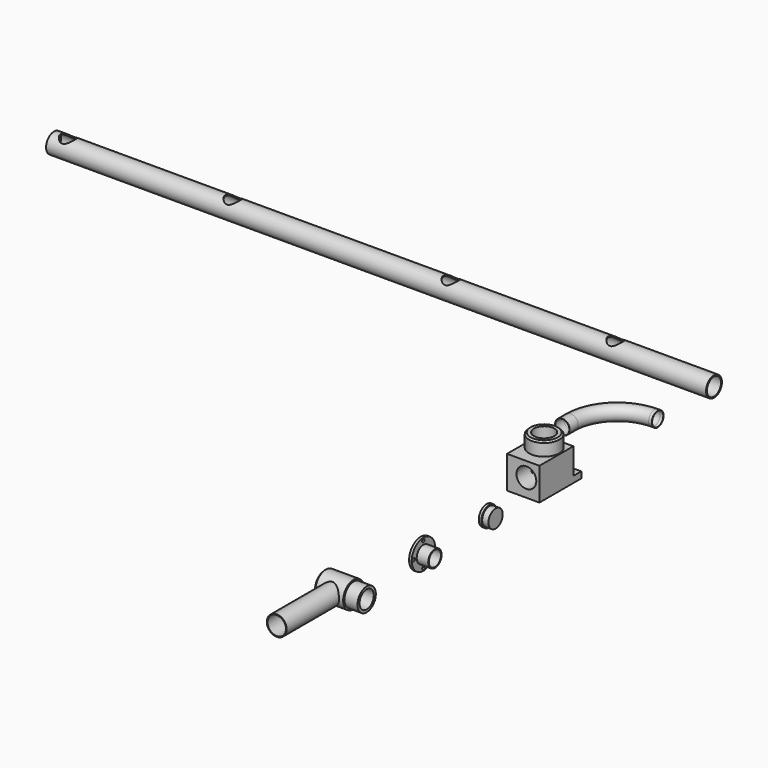
from build123d import *

# Parameters (mm, degrees)
F1_R           = 3.5687
F3_R           = 3.3913874419
F5_R           = 4.826
F6_DEPTH       = 320.548
F7_R           = 4.2803248495
F8_DEPTH       = 320.549
F11_R          = 3.556
F12_DEPTH      = 5.08
F13_W          = 15.748
F13_H          = 20.574
F14_DEPTH      = 15.748
F13_H_2        = 4.826
F15_DEPTH      = 3.048
F16_R          = 7.366
F17_DEPTH      = 6.604
F18_SIZE       = 0.762
F19_R          = 1.0922
F20_DEPTH      = 25.4
F21_R          = 4.9657
F22_DEPTH      = 16.51
F23_R          = 4.826
F24_DEPTH      = 12.7
F25_R          = 4.826
F26_DEPTH      = 1.27
F27_R          = 4.318
F28_DEPTH      = 3.048
F29_R          = 7.112
F29_R_2        = 4.064
F29_R_3        = 3.683
F30_DEPTH      = 1.27
F31_DEPTH      = 5.588
F32_R          = 0.762
F33_DEPTH      = 25.4
F34_R          = 6.35
F34_R_2        = 5.55625
F34_R_3        = 4.318
F35_DEPTH      = 14.224
F36_DEPTH      = 6.35
F40_R          = 4.826
F41_DEPTH      = 6.35
F41_DEPTH_BACK = 31.75
F42_R          = 4.4861073649
F43_DEPTH      = 38.1
F37_R          = 4.318
F44_DEPTH      = 19.812
F45_SIZE       = 0.762


with BuildPart() as f2:
    # F2: sweep along a path in F0
    with BuildLine(Plane.XY) as f2_path:
        Line((0, 0), (-1.524, 0))
        ThreePointArc((-1.524, 0), (-17.5178361516, -6.6248638484), (-24.1427, -22.6187))
        Line((-24.1427, -22.6187), (-24.1427, -27.6987))
    # F1 (on Right) → F2 (sweep)
    with BuildSketch(Plane.YZ):
        Circle(F1_R)
    sweep(path=f2_path.line)

    # F4: sweep along a path in F0
    with BuildLine(Plane.XY) as f4_path:
        Line((0, 0), (-1.524, 0))
        ThreePointArc((-1.524, 0), (-17.5178361516, -6.6248638484), (-24.1427, -22.6187))
        Line((-24.1427, -22.6187), (-24.1427, -27.6987))
    # F3 (on face) → F4 (sweep, cut)
    with BuildSketch(Plane.YZ):
        Circle(F3_R)
    sweep(path=f4_path.line, mode=Mode.SUBTRACT)


with BuildPart() as f6:
    # F5 (on Right) → F6 (new body)
    with BuildSketch(Plane.YZ):
        with Locations((34.1644063592, 0)):
            Circle(F5_R)
    extrude(amount=-F6_DEPTH)

    # F7 (on face) → F8 (cut, through all)
    with BuildSketch(Plane.YZ):
        with Locations((34.1644063592, 0)):
            Circle(F7_R)
    extrude(amount=-F8_DEPTH, mode=Mode.SUBTRACT)

    # F11 (on plane+point) → F12 (cut)
    with BuildSketch(Plane.XY.offset(4.826)):
        with Locations((-313.69, 34.1559387743)):
            Circle(F11_R)
        with Locations((-233.68, 34.1559387743)):
            Circle(F11_R)
        with Locations((-127.762, 34.1559387743)):
            Circle(F11_R)
        with Locations((-47.752, 34.1559387743)):
            Circle(F11_R)
    extrude(amount=-F12_DEPTH, mode=Mode.SUBTRACT)


with BuildPart() as f14:
    # F13 (on Top) → F14 (new body)
    with BuildSketch(Plane.XY):
        with Locations((0, -71.3552562718)):
            Rectangle(F13_W, F13_H)
    extrude(amount=F14_DEPTH)

    # F13 (on Top) → F15 (join)
    with BuildSketch(Plane.XY):
        with Locations((0, -58.6552562718)):
            Rectangle(F13_W, F13_H_2)
    extrude(amount=F15_DEPTH)

    # F16 (on face) → F17 (join)
    with BuildSketch(Plane.XY.offset(15.748)):
        with Locations((0, -68.9422562718)):
            Circle(F16_R)
    extrude(amount=F17_DEPTH)

    # F18
    f18_edges = [f14.edges().sort_by_distance(p)[0] for p in [
        (-7.366, -68.942256, 22.352),
    ]]
    chamfer(f18_edges, length=F18_SIZE)

    # F19 (on face) → F20 (cut)
    with BuildSketch(Plane.XY.offset(3.048)):
        with Locations((-4.826, -58.6552562718)):
            Circle(F19_R)
        with Locations((4.826, -58.6552562718)):
            Circle(F19_R)
    extrude(amount=-F20_DEPTH, mode=Mode.SUBTRACT)

    # F21 (on face) → F22 (cut)
    with BuildSketch(Plane.XY.offset(22.352)):
        with Locations((0, -68.9422562718)):
            Circle(F21_R)
    extrude(amount=-F22_DEPTH, mode=Mode.SUBTRACT)

    # F23 (on face) → F24 (cut)
    with BuildSketch(Plane.XZ.offset(81.6422562718)):
        with Locations((1.524, 8.636)):
            Circle(F23_R)
    extrude(amount=-F24_DEPTH, mode=Mode.SUBTRACT)


with BuildPart() as f26:
    # F25 (on Right) → F26 (new body)
    with BuildSketch(Plane.YZ):
        with Locations((-102.2388637066, 0)):
            Circle(F25_R)
    extrude(amount=-F26_DEPTH)

    # F27 (on face) → F28 (join)
    with BuildSketch(Plane.YZ):
        with Locations((-102.2388637066, 0)):
            Circle(F27_R)
    extrude(amount=F28_DEPTH)


with BuildPart() as f30:
    # F29 (on Right) → F30 (new body)
    with BuildSketch(Plane.YZ):
        with Locations((-142.2408074141, 0)):
            Circle(F29_R)
        with Locations((-142.2408074141, 0)):
            Circle(F29_R_2, mode=Mode.SUBTRACT)
        with Locations((-142.2408074141, 0)):
            Circle(F29_R_2)
        with Locations((-142.2408074141, 0)):
            Circle(F29_R_3, mode=Mode.SUBTRACT)
    extrude(amount=-F30_DEPTH)

    # F29 (on Right) → F31 (join)
    with BuildSketch(Plane.YZ):
        with Locations((-142.2408074141, 0)):
            Circle(F29_R_2)
        with Locations((-142.2408074141, 0)):
            Circle(F29_R_3, mode=Mode.SUBTRACT)
    extrude(amount=F31_DEPTH)

    # F32 (on face) → F33 (cut)
    with BuildSketch(Plane(origin=(-1.27, 0, 0), x_dir=(0, -1, 0), z_dir=(-1, 0, 0))):
        with Locations((136.3988074141, 0)):
            Circle(F32_R)
        with Locations((142.2408074141, 5.842)):
            Circle(F32_R)
        with Locations((148.0828074141, 0)):
            Circle(F32_R)
        with Locations((142.2408074141, -5.842)):
            Circle(F32_R)
    extrude(amount=-F33_DEPTH, mode=Mode.SUBTRACT)


with BuildPart() as f35:
    # F34 (on Right) → F35 (new body)
    with BuildSketch(Plane.YZ):
        with Locations((-184.6364736557, 0)):
            Circle(F34_R)
        with Locations((-184.6364736557, 0)):
            Circle(F34_R_2, mode=Mode.SUBTRACT)
        with Locations((-184.6364736557, 0)):
            Circle(F34_R_2)
        with Locations((-184.6364736557, 0)):
            Circle(F34_R_3, mode=Mode.SUBTRACT)
        with Locations((-184.6364736557, 0)):
            Circle(F34_R_3)
    extrude(amount=-F35_DEPTH)

    # F34 (on Right) → F36 (join)
    with BuildSketch(Plane.YZ):
        with Locations((-184.6364736557, 0)):
            Circle(F34_R_2)
        with Locations((-184.6364736557, 0)):
            Circle(F34_R_3, mode=Mode.SUBTRACT)
        with Locations((-184.6364736557, 0)):
            Circle(F34_R_3)
    extrude(amount=F36_DEPTH)

    # F40 (on plane+point) → F41 (join, two sides)
    with BuildSketch(Plane.XZ.offset(190.9864736557)) as f41_sk:
        with Locations((-6.8404227495, 0)):
            Circle(F40_R)
    extrude(amount=-F41_DEPTH)
    extrude(f41_sk.sketch, amount=F41_DEPTH_BACK)

    # F42 (on face) → F43 (cut)
    with BuildSketch(Plane.XZ.offset(222.7364736557)):
        with Locations((-6.8404227495, 0)):
            Circle(F42_R)
    extrude(amount=-F43_DEPTH, mode=Mode.SUBTRACT)

    # F37 (on face) → F44 (cut)
    with BuildSketch(Plane.YZ.offset(6.35)):
        with Locations((-184.6364736557, 0)):
            Circle(F37_R)
    extrude(amount=-F44_DEPTH, mode=Mode.SUBTRACT)

    # F45
    f45_edges = [f35.edges().sort_by_distance(p)[0] for p in [
        (-14.224, -190.986474, 0),
    ]]
    chamfer(f45_edges, length=F45_SIZE)


solid = Compound([f2.part, f6.part, f14.part, f26.part, f30.part, f35.part])
